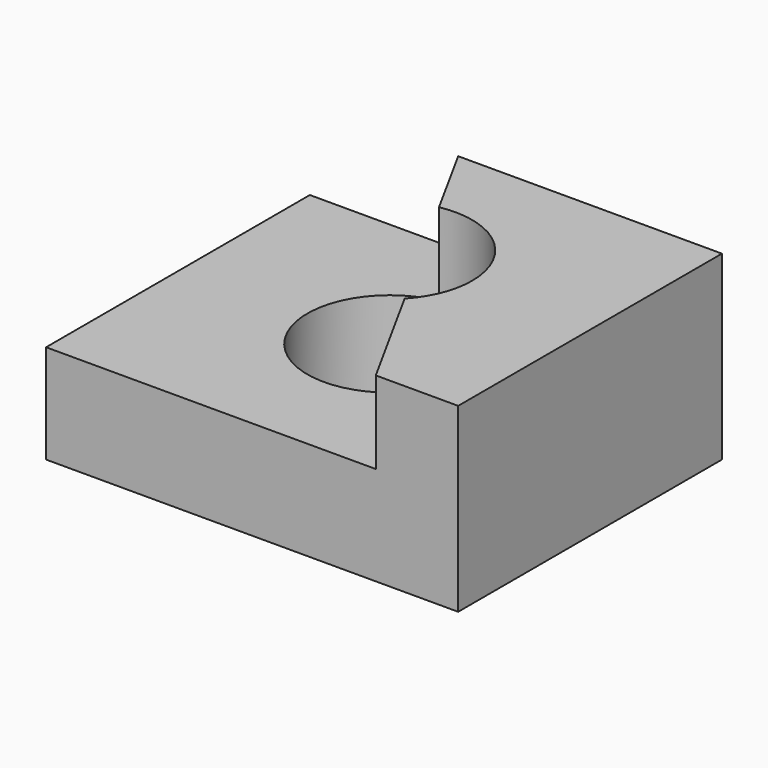
from build123d import *

# Parameters (mm, degrees)
F0_W     = 100
F0_H     = 80
F0_R     = 20
F1_DEPTH = 44
F2_DEPTH = 44
F4_DEPTH = 20


with BuildPart() as f1:
    # F0 (on Top) → F1 (new body)
    with BuildSketch(Plane.XY):
        Rectangle(F0_W, F0_H)
        with Locations((0, 1.739223)):
            Circle(F0_R, mode=Mode.SUBTRACT)
    extrude(amount=F1_DEPTH)

    # F0 (on Top) → F2 (join)
    with BuildSketch(Plane.XY):
        Rectangle(F0_W, F0_H)
        with Locations((0, 1.739223)):
            Circle(F0_R, mode=Mode.SUBTRACT)
    extrude(amount=F2_DEPTH)

    # F3 (on face) → F4 (cut)
    with BuildSketch(Plane.XY.offset(44)):
        with BuildLine():
            Line((-3.760391, 21.382529), (-14, 40))
            Line((-14, 40), (-50, 40))
            Line((-50, 40), (-50, -40))
            Line((-50, -40), (30, -40))
            Line((30, -40), (14.575634, -11.955699))
            ThreePointArc((14.575634, -11.955699), (-17.524318, -7.899152), (-3.760391, 21.382529))
        make_face()
    extrude(amount=-F4_DEPTH, mode=Mode.SUBTRACT)


solid = f1.part
